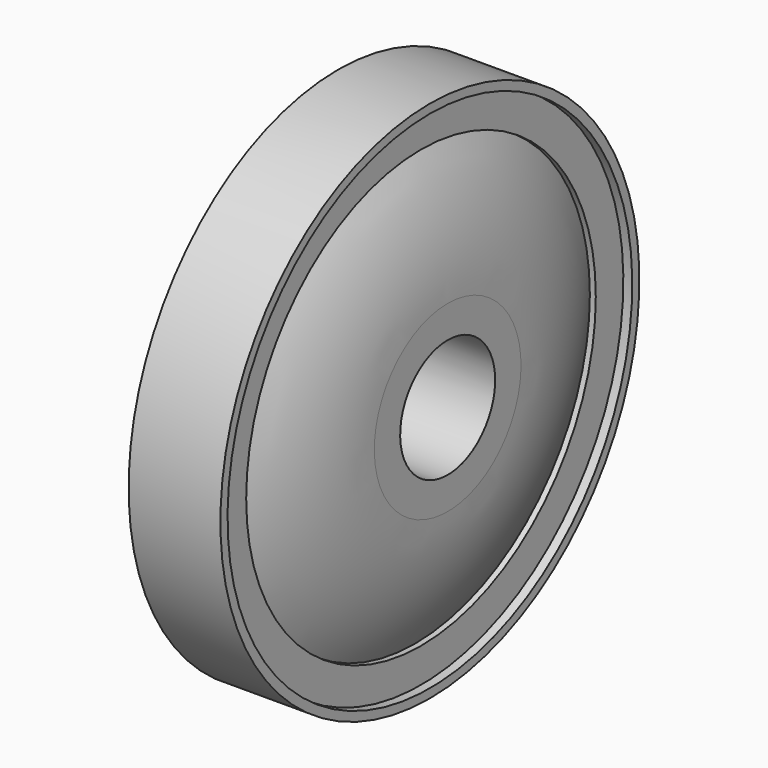
from build123d import *

# Parameters (mm, degrees)
F2_R = 5


with BuildPart() as f1:
    # F0 (on Front) → F1 (revolve)
    with BuildSketch(Plane.XZ):
        with BuildLine():
            Line((3.865, 21.3), (3.865, 22.05))
            Line((3.865, 22.05), (-3.865, 22.05))
            Line((-3.865, 22.05), (-3.865, 21.3))
            Line((-3.865, 21.3), (0.634659, 21.3))
            Line((0.634659, 21.3), (0.634659, 17.269368))
            ThreePointArc((0.634659, 17.269368), (2.14433, 13.746856), (2.949481, 10))
            Line((2.949481, 10), (2.699481, 10))
            Line((2.699481, 10), (2.699481, 7))
            Line((2.699481, 7), (-6.865, 7))
            Line((-6.865, 7), (-6.865, 5))
            Line((-6.865, 5), (5.36081, 5))
            Line((5.36081, 5), (5.36081, 7.719591))
            ThreePointArc((5.36081, 7.719591), (4.663357, 13.233456), (2.614931, 18.399992))
            Line((2.614931, 18.399992), (3.115, 18.4))
            Line((3.115, 18.4), (3.115, 21.3))
            Line((3.115, 21.3), (3.865, 21.3))
        make_face()
        with BuildLine():
            Line((3.865, 21.3), (3.865, 22.05))
            Line((3.865, 22.05), (-3.865, 22.05))
            Line((-3.865, 22.05), (-3.865, 21.3))
            Line((-3.865, 21.3), (0.634659, 21.3))
            Line((0.634659, 21.3), (0.634659, 17.269368))
            ThreePointArc((0.634659, 17.269368), (2.14433, 13.746856), (2.949481, 10))
            Line((2.949481, 10), (2.699481, 10))
            Line((2.699481, 10), (2.699481, 7))
            Line((2.699481, 7), (-6.865, 7))
            Line((-6.865, 7), (-6.865, 5))
            Line((-6.865, 5), (5.36081, 5))
            Line((5.36081, 5), (5.36081, 7.719591))
            ThreePointArc((5.36081, 7.719591), (4.663357, 13.233456), (2.614931, 18.399992))
            Line((2.614931, 18.399992), (3.115, 18.4))
            Line((3.115, 18.4), (3.115, 21.3))
            Line((3.115, 21.3), (3.865, 21.3))
        make_face()
    revolve(axis=Axis((-0.507669, 0, 0), (-1, 0, 0)))

    # F2
    f2_edges = [f1.edges().sort_by_distance(p)[0] for p in [
        (0.634659, 0, -17.269368),
    ]]
    fillet(f2_edges, radius=F2_R)


solid = f1.part
